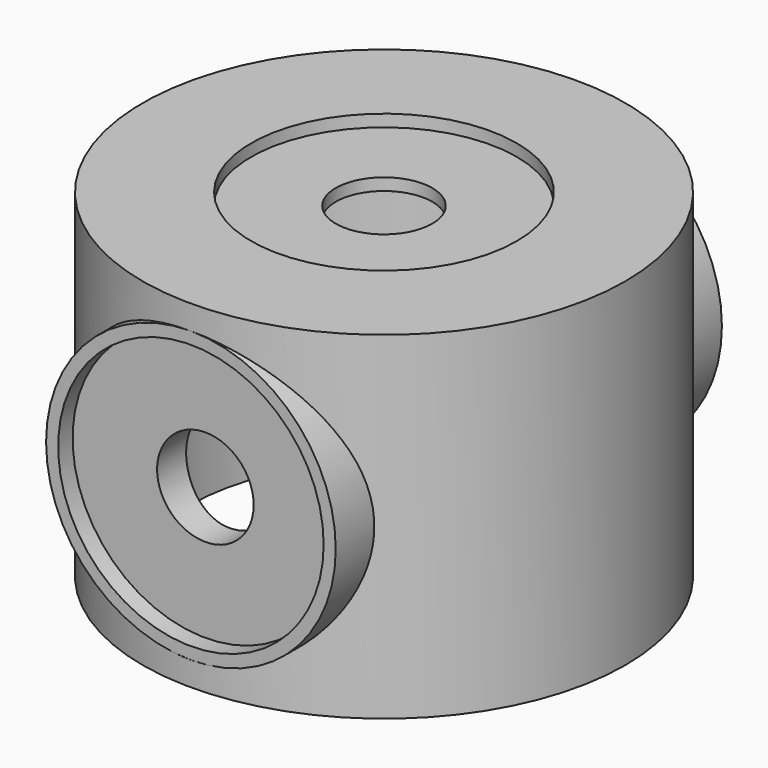
from build123d import *

# Parameters (mm, degrees)
F0_R      = 10
F1_DEPTH  = 14
F2_R      = 6
F3_DEPTH  = 10
F4_R      = 5.5
F5_DEPTH  = 12.5
F6_DEPTH  = 9.25
F7_R      = 2
F8_DEPTH  = 12.5
F9_R      = 8
F10_DEPTH = 13
F11_R     = 5.5
F12_DEPTH = 0.5
F13_R     = 2
F14_DEPTH = 25


with BuildPart() as f1:
    # F0 (on Top) → F1 (new body)
    with BuildSketch(Plane.XY):
        Circle(F0_R)
    extrude(amount=F1_DEPTH)

    # F2 (on Front) → F3 (join, symmetric)
    with BuildSketch(Plane.XZ):
        with Locations((0, 7)):
            Circle(F2_R)
    extrude(amount=F3_DEPTH, both=True)

    # F4 (on Front) → F5 (cut, symmetric)
    with BuildSketch(Plane.XZ):
        with Locations((0, 7)):
            Circle(F4_R)
    extrude(amount=F5_DEPTH, both=True, mode=Mode.SUBTRACT)

    # F4 (on Front) → F6 (join, symmetric)
    with BuildSketch(Plane.XZ):
        with Locations((0, 7)):
            Circle(F4_R)
    extrude(amount=F6_DEPTH, both=True)

    # F7 (on Front) → F8 (cut, symmetric)
    with BuildSketch(Plane.XZ):
        with Locations((0, 7)):
            Circle(F7_R)
    extrude(amount=F8_DEPTH, both=True, mode=Mode.SUBTRACT)

    # F9 (on Top) → F10 (cut)
    with BuildSketch(Plane.XY):
        Circle(F9_R)
    extrude(amount=F10_DEPTH, mode=Mode.SUBTRACT)

    # F11 (on face) → F12 (cut)
    with BuildSketch(Plane.XY.offset(14)):
        Circle(F11_R)
    extrude(amount=-F12_DEPTH, mode=Mode.SUBTRACT)

    # F13 (on Top) → F14 (cut)
    with BuildSketch(Plane.XY):
        Circle(F13_R)
    extrude(amount=F14_DEPTH, mode=Mode.SUBTRACT)


solid = f1.part
